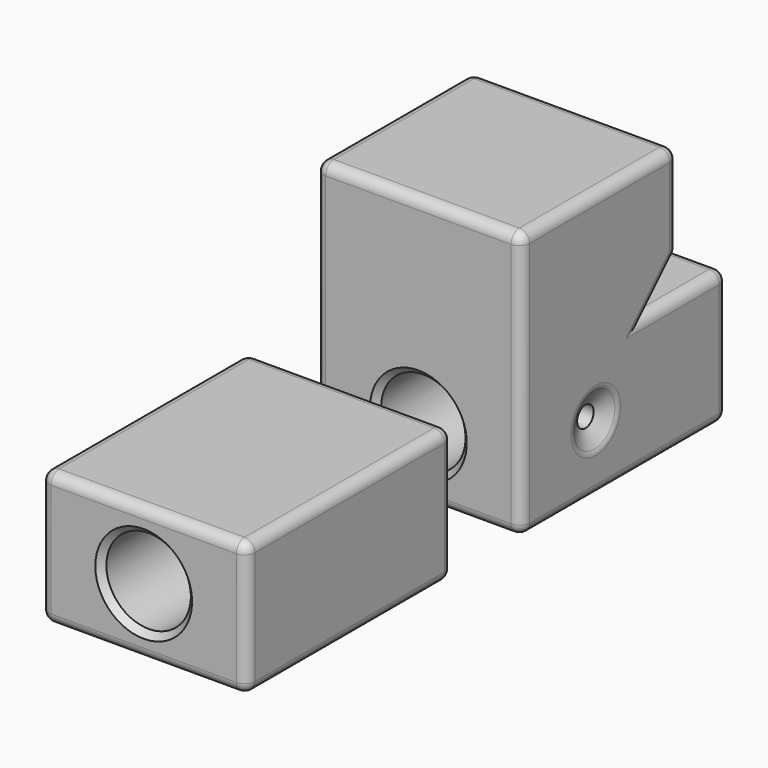
from build123d import *

# Parameters (mm, degrees)
F1_DEPTH   = 20
F0_W       = 25
F0_H       = 13
F2_R       = 4.1
F3_DEPTH   = 58.3545298705
F4_R       = 1
F5_DEPTH   = 20.001
F6_SIZE2   = 1
F6_SIZE    = 1.7320508076
F6_2_SIZE2 = 1
F6_2_SIZE  = 1.7320508076
F7_R       = 1
F7_2_R     = 1
F8_SIZE    = 0.6
F8_2_SIZE  = 0.6


with BuildPart() as f1:
    # F0 (on Right) → F1 (new body)
    with BuildSketch(Plane.YZ):
        Polygon((5.5186959505, 8.9396367073), (-13.4813040495, 8.9396367073), (-13.4813040495, -16.9494505892), (11.5186959505, -16.9494505892), (11.5186959505, -3.9494505892), (1.629608654, -3.9494505892), (5.5186959505, -0.0603632927), align=None)
    extrude(amount=F1_DEPTH)


with BuildPart() as f1b:
    # F0 (on Right) → F1, piece 2 (new body)
    with BuildSketch(Plane.YZ):
        with Locations((-34.33483392, -10.4494505892)):
            Rectangle(F0_W, F0_H)
    extrude(amount=F1_DEPTH)


with BuildPart() as f3_tool:
    # F2 (on face) → F3 (new body, through all)
    with BuildSketch(Plane(origin=(0, 11.5186959505, 0), x_dir=(-1, 0, 0), z_dir=(0, 1, 0))):
        with Locations((-10, -10.4494505892)):
            Circle(F2_R)
    extrude(amount=-F3_DEPTH)


with BuildPart() as f1_1:
    add(f1.part)

    # F3: cut by f3_tool
    add(f3_tool.part, mode=Mode.SUBTRACT)

    # F4 (on face) → F5 (cut, through all)
    with BuildSketch(Plane(origin=(0, 0, 0), x_dir=(0, -1, 0), z_dir=(-1, 0, 0))):
        with Locations((4.4569787569, -10.4494505892)):
            Circle(F4_R)
    extrude(amount=-F5_DEPTH, mode=Mode.SUBTRACT)

    # F6
    f6_edges = [f1_1.edges().sort_by_distance(p)[0] for p in [
        (0, -3.456979, -10.449451),
    ]]
    f6_side = f1_1.faces().sort_by_distance((0, -2.34598, -4.885918))[0]
    chamfer(f6_edges, length=F6_SIZE, length2=F6_SIZE2, reference=f6_side)

    # F6#2
    f6_2_edges = [f1_1.edges().sort_by_distance(p)[0] for p in [
        (20, -3.456979, -10.449451),
    ]]
    f6_2_side = f1_1.faces().sort_by_distance((20, -2.34598, -4.885918))[0]
    chamfer(f6_2_edges, length=F6_2_SIZE, length2=F6_2_SIZE2, reference=f6_2_side)

    # F7
    f7_edges = [f1_1.edges().sort_by_distance(p)[0] for p in [
        (10, 5.518696, 8.939637),
        (10, -13.481304, 8.939637),
        (0, -3.981304, 8.939637),
        (20, -3.981304, 8.939637),
        (0, -1.724928, -10.449451),
        (0, 6.574152, -3.949451),
        (0, 11.518696, -10.449451),
        (0, 3.574152, -2.004907),
        (0, -0.981304, -16.949451),
        (0, 5.518696, 4.439637),
        (0, -13.481304, -4.004907),
        (20, -1.724928, -10.449451),
        (20, 6.574152, -3.949451),
        (20, 11.518696, -10.449451),
        (20, 3.574152, -2.004907),
        (20, -0.981304, -16.949451),
        (20, 5.518696, 4.439637),
        (20, -13.481304, -4.004907),
        (10, -13.481304, -16.949451),
        (10, 11.518696, -16.949451),
        (10, 11.518696, -3.949451),
        (10, 5.518696, -0.060363),
    ]]
    fillet(f7_edges, radius=F7_R)

    # F8
    f8_edges = [f1_1.edges().sort_by_distance(p)[0] for p in [
        (14.1, 11.518696, -10.449451),
        (14.1, -13.481304, -10.449451),
    ]]
    chamfer(f8_edges, length=F8_SIZE)


with BuildPart() as f1b_1:
    add(f1b.part)

    # F3: cut by f3_tool
    add(f3_tool.part, mode=Mode.SUBTRACT)

    # F7#2
    f7_2_edges = [f1b_1.edges().sort_by_distance(p)[0] for p in [
        (10, -21.834834, -3.949451),
        (10, -46.834834, -3.949451),
        (0, -34.334834, -3.949451),
        (20, -34.334834, -3.949451),
        (0, -34.334834, -16.949451),
        (0, -21.834834, -10.449451),
        (0, -46.834834, -10.449451),
        (10, -46.834834, -16.949451),
        (10, -21.834834, -16.949451),
        (20, -34.334834, -16.949451),
        (20, -21.834834, -10.449451),
        (20, -46.834834, -10.449451),
    ]]
    fillet(f7_2_edges, radius=F7_2_R)

    # F8#2
    f8_2_edges = [f1b_1.edges().sort_by_distance(p)[0] for p in [
        (14.1, -46.834834, -10.449451),
        (14.1, -21.834834, -10.449451),
    ]]
    chamfer(f8_2_edges, length=F8_2_SIZE)


solid = Compound([f1_1.part, f1b_1.part])
